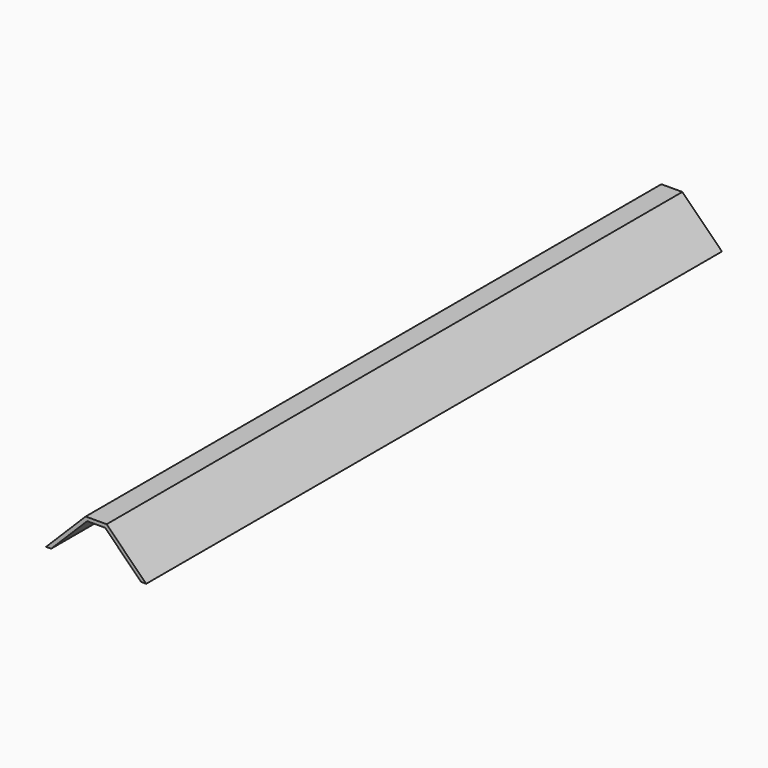
from build123d import *


with BuildPart() as f2:
    # F2: sweep along a path in F1
    with BuildLine(Plane.XY) as f2_path:
        Line((0, 0), (0, 2000))
    # F0 (on Front) → F2 (sweep)
    with BuildSketch(Plane.XZ):
        Polygon((125, 0), (139.142136, 0), (29.142136, 110), (-29.142136, 110), (-139.142136, 0), (-125, 0), (-25, 100), (25, 100), align=None)
    sweep(path=f2_path.line)


solid = f2.part
